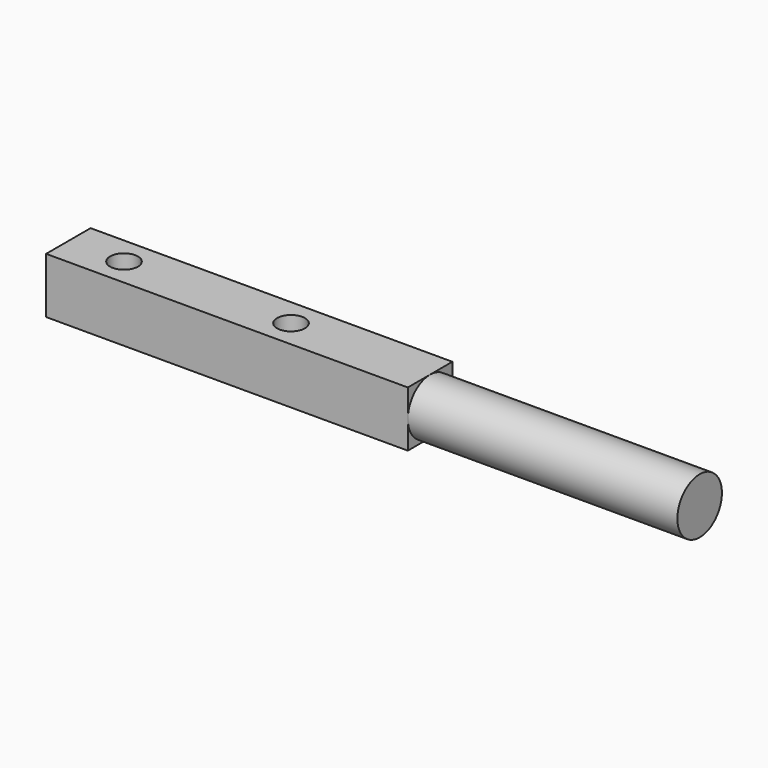
from build123d import *

# Parameters (mm, degrees)
F1_DEPTH = 0.25
F0_W     = 2.421442
F0_H     = 0.25
F3_R     = 0.125
F4_DEPTH = 0.501


with BuildPart() as f1:
    # F0 (on Front) → F1 (new body, symmetric)
    with BuildSketch(Plane.XZ):
        Polygon((0, 0), (0, 0.25), (-3.249379, 0.25), (-3.249379, -0.25), (0, -0.25), align=None)
    extrude(amount=F1_DEPTH, both=True)

    # F0 (on Front) → F2 (revolve)
    with BuildSketch(Plane.XZ):
        with Locations((1.210721, 0.125)):
            Rectangle(F0_W, F0_H)
    revolve(axis=Axis((1.210721, 0, 0), (1, 0, 0)))

    # F3 (on face) → F4 (cut, through all)
    with BuildSketch(Plane.XY.offset(0.25)):
        with Locations((-2.749379, 0)):
            Circle(F3_R)
        with Locations((-1.249379, 0)):
            Circle(F3_R)
    extrude(amount=-F4_DEPTH, mode=Mode.SUBTRACT)


solid = f1.part
